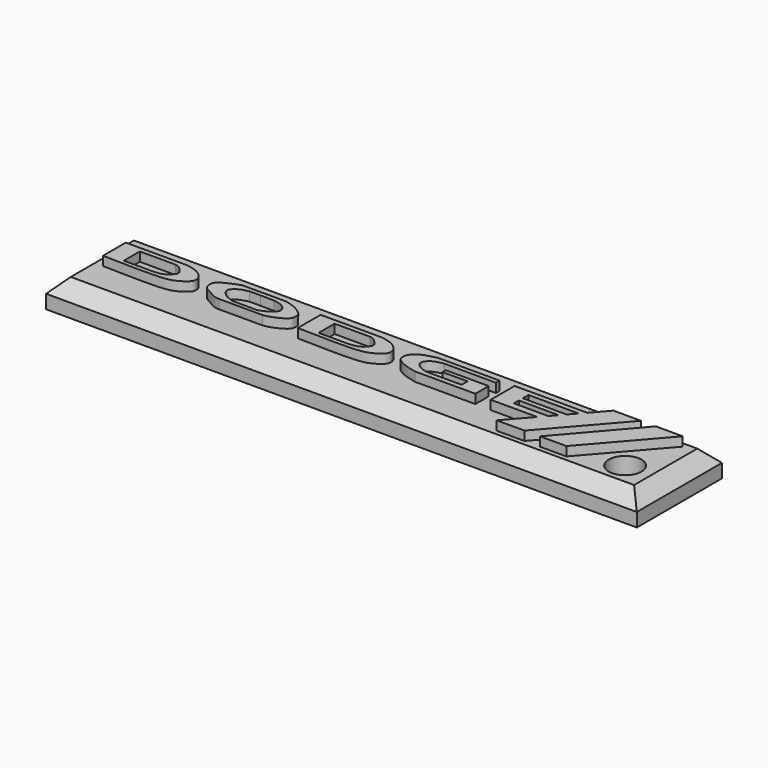
from build123d import *

# Parameters (mm, degrees)
F0_W     = 64.6943780594
F0_H     = 11.6488384083
F1_DEPTH = 3
F2_DEPTH = 4
F3_SIZE  = 1.5
F4_R     = 1.7915457034
F5_DEPTH = 3


with BuildPart() as f1:
    # F0 (on Top) → F1 (new body)
    with BuildSketch(Plane.XY):
        with Locations((29.9404060934, 14.5851164125)):
            Rectangle(F0_W, F0_H)
        with BuildLine():
            add(Edge.make_bspline(
                [(0, 16.6619066149), (0, 15.6249670933), (0, 14.5880275716), (0, 13.55108805)],
                knots=[0, 0, 0, 0, 3.1108185649, 3.1108185649, 3.1108185649, 3.1108185649], degree=3))
            add(Edge.make_bspline(
                [(0, 16.6619066149), (2.2395310613, 16.6654940695), (4.4790621226, 16.669081524), (6.7185931839, 16.6726689786)],
                knots=[0, 0, 0, 0, 6.7186018039, 6.7186018039, 6.7186018039, 6.7186018039], degree=3))
            add(Edge.make_bspline(
                [(0, 13.55108805), (2.6356313992, 13.4776332503), (6.4774683083, 13.3705616162), (7.8916299906, 13.8301948371), (8.8432178583, 14.4937070572), (9.049663195, 15.0230671011), (8.8566248976, 15.7152819785), (7.957345497, 16.4329710188), (7.1418606883, 16.5907669259), (6.7185931839, 16.6726689786)],
                knots=[0, 0, 0, 0, 0.3039399396, 0.4430390678, 0.5638554875, 0.6483479545, 0.743091332, 0.8666546702, 1, 1, 1, 1], degree=3))
        make_face(mode=Mode.SUBTRACT)
        with BuildLine():
            add(Edge.make_bspline(
                [(15.0937847793, 16.7209766805), (14.3032893538, 16.7209766805), (13.5127939284, 16.7209766805), (12.7222985029, 16.7209766805)],
                knots=[0, 0, 0, 0, 2.3714862764, 2.3714862764, 2.3714862764, 2.3714862764], degree=3))
            add(Edge.make_bspline(
                [(15.0937847793, 16.7209766805), (15.8963482827, 16.7209766805), (16.6989117861, 16.7209766805), (17.5014752895, 16.7209766805)],
                knots=[0, 0, 0, 0, 2.4076905102, 2.4076905102, 2.4076905102, 2.4076905102], degree=3))
            add(Edge.make_bspline(
                [(17.5014752895, 13.4986527264), (17.6619988472, 13.5205303148), (18.0499266378, 13.5734005892), (19.0274768919, 13.9559651698), (19.7452737837, 14.4364713857), (19.8917832927, 14.8106124787), (19.8859095439, 15.1034978772), (19.917181117, 15.4698988627), (19.3674249396, 15.9708993273), (18.5895040603, 16.4468247786), (17.875298566, 16.6267839854), (17.5014752895, 16.7209766805)],
                knots=[0, 0, 0, 0, 0.1008314316, 0.2436733589, 0.3713316281, 0.4541357802, 0.5272793992, 0.6062614279, 0.7204347183, 0.8536723528, 1, 1, 1, 1], degree=3))
            add(Edge.make_bspline(
                [(12.7222985029, 13.4986527264), (14.3153574318, 13.4986527264), (15.9084163606, 13.4986527264), (17.5014752895, 13.4986527264)],
                knots=[0, 0, 0, 0, 4.7791767865, 4.7791767865, 4.7791767865, 4.7791767865], degree=3))
            add(Edge.make_bspline(
                [(12.7222985029, 16.7209766805), (12.5992056397, 16.6858814159), (12.3038106527, 16.6016607312), (11.5652978035, 16.269955273), (10.8139625819, 15.9046393622), (10.4607580227, 15.49381424), (10.4168678578, 15.1214249899), (10.4690867127, 14.6529926477), (10.7862065756, 14.2882706084), (11.6351403189, 13.8699157544), (12.2129562328, 13.5226877609), (12.562582557, 13.5061894625), (12.7222985029, 13.4986527264)],
                knots=[0, 0, 0, 0, 0.0847831174, 0.2034602755, 0.3250042595, 0.4178031992, 0.4963426029, 0.5833803792, 0.6725615097, 0.8002972911, 0.9087720093, 1, 1, 1, 1], degree=3))
        make_face(mode=Mode.SUBTRACT)
        with BuildLine():
            add(Edge.make_bspline(
                [(21.3623642921, 16.6247766465), (21.3623642921, 15.5878371249), (21.3623642921, 14.5508976032), (21.3623642921, 13.5139580816)],
                knots=[0, 0, 0, 0, 3.1108185649, 3.1108185649, 3.1108185649, 3.1108185649], degree=3))
            add(Edge.make_bspline(
                [(21.3623642921, 16.6247766465), (23.6018953534, 16.6283641011), (25.8414264147, 16.6319515556), (28.080957476, 16.6355390102)],
                knots=[0, 0, 0, 0, 6.7186018039, 6.7186018039, 6.7186018039, 6.7186018039], degree=3))
            add(Edge.make_bspline(
                [(21.3623642921, 13.5139580816), (23.9979956914, 13.4405032819), (27.8398326005, 13.3334316478), (29.2539942827, 13.7930648687), (30.2055821504, 14.4565770888), (30.4120274871, 14.9859371327), (30.2189891897, 15.6781520101), (29.3197097891, 16.3958410504), (28.5042249804, 16.5536369575), (28.080957476, 16.6355390102)],
                knots=[0, 0, 0, 0, 0.3039399396, 0.4430390678, 0.5638554875, 0.6483479545, 0.743091332, 0.8666546702, 1, 1, 1, 1], degree=3))
        make_face(mode=Mode.SUBTRACT)
        with BuildLine():
            Line((34.1965407133, 16.6758578271), (40.9325882792, 16.6758578271))
            Line((40.9325882792, 16.6758578271), (40.9325882792, 16.1811187863))
            Line((40.9325882792, 16.1811187863), (35.2392978966, 16.1811187863))
            add(Edge.make_bspline(
                [(35.2392978966, 16.1811187863), (35.065849306, 16.1507938909), (34.7034011246, 16.0874252399), (34.0643330703, 15.8536187829), (33.7795420623, 15.5571591868), (33.4432012222, 15.0651121747), (33.8140324231, 14.6158252142), (34.0991364457, 14.3475990951), (34.708079032, 14.0945674904), (35.0670920181, 14.0592638748), (35.2392978966, 14.0423299745)],
                knots=[0, 0, 0, 0, 0.1282020316, 0.2678983611, 0.3804203176, 0.5037163208, 0.6253932633, 0.7358900795, 0.8733157779, 1, 1, 1, 1], degree=3))
            Line((35.2392978966, 14.0423299745), (38.8699136674, 14.0423299745))
            Line((38.8699136674, 14.0423299745), (38.8699136674, 14.8643553257))
            Line((38.8699136674, 14.8643553257), (36.1298248172, 14.8643553257))
            Line((36.1298248172, 14.8643553257), (36.1298248172, 15.3058134019))
            Line((36.1298248172, 15.3058134019), (40.8260300756, 15.3058134019))
            Line((40.8260300756, 15.3058134019), (40.8260300756, 13.4867010638))
            Line((40.8260300756, 13.4867010638), (34.1965407133, 13.4867010638))
            add(Edge.make_bspline(
                [(34.1965407133, 16.6758578271), (33.9997251342, 16.6299726166), (33.5597654512, 16.5274012513), (32.6065235979, 16.2687178985), (32.0547692348, 15.7579720962), (31.7805348243, 15.4758573464), (31.6747249547, 14.9423420515), (31.7976510571, 14.4837935593), (32.0656129323, 14.2737353583), (32.6056744758, 13.9104299558), (33.5032409642, 13.6569636208), (33.9764927592, 13.5407410767), (34.1965407133, 13.4867010638)],
                knots=[0, 0, 0, 0, 0.1027638183, 0.229717267, 0.3388087796, 0.4173092512, 0.5091897415, 0.5945745443, 0.6664153967, 0.7682649406, 0.8922501166, 1, 1, 1, 1], degree=3))
        make_face(mode=Mode.SUBTRACT)
        Polygon((42.5465665758, 13.4334731847), (42.5465665758, 16.7057532817), (50.2967014909, 16.7057532817), (50.5021695869, 16.7057532817), (52.0012713969, 18.4211824089), (55.0158396363, 18.4211824089), (48.366740346, 10.7768261805), (45.3209206462, 10.7768261805), (47.6425463369, 13.4334731847), (47.4872775376, 13.4334731847), align=None, mode=Mode.SUBTRACT)
        Polygon((50.0769019127, 10.7803940773), (56.6501393914, 18.4105243534), (59.5919303596, 18.4105243534), (52.9602617025, 10.7803940773), align=None, mode=Mode.SUBTRACT)
    extrude(amount=F1_DEPTH)

    # F3
    f3_edges = [f1.edges().sort_by_distance(p)[0] for p in [
        (29.940406, 20.409536, 3),
        (62.287595, 14.585116, 3),
        (29.940406, 8.760697, 3),
        (-2.406783, 14.585116, 3),
    ]]
    chamfer(f3_edges, length=F3_SIZE)

    # F4 (on face) → F5 (cut)
    with BuildSketch(Plane.XY.offset(3)):
        with Locations((57.9391159117, 12.594957836)):
            Circle(F4_R)
    extrude(amount=-F5_DEPTH, mode=Mode.SUBTRACT)


with BuildPart() as f1b:
    # F0 (on Top) → F1, piece 2 (new body)
    with BuildSketch(Plane.XY):
        with BuildLine():
            add(Edge.make_bspline(
                [(7.0256316103, 15.1055129245), (7.0366968789, 15.0345991088), (7.0605681613, 14.8816155906), (6.848996733, 14.6681794644), (6.631529301, 14.368447894), (6.2580237894, 14.1292552016), (5.7171660723, 13.9767163298), (5.2918281778, 13.9571205727), (5.0705131143, 13.9469243586)],
                knots=[0, 0, 0, 0, 0.1198938259, 0.2586488843, 0.4189381251, 0.5916116282, 0.7875042417, 1, 1, 1, 1], degree=3))
            add(Edge.make_bspline(
                [(7.0256316103, 15.1055129245), (7.0318702929, 15.1424477781), (7.0481741457, 15.2389714282), (6.8504621463, 15.4932236561), (6.5211986829, 15.824656326), (6.2797102181, 16.0350691635), (6.0053538202, 16.1016293485), (5.8579915203, 16.1373801529)],
                knots=[0, 0, 0, 0, 0.1222791511, 0.3195580553, 0.5665438528, 0.7671820477, 1, 1, 1, 1], degree=3))
            add(Edge.make_bspline(
                [(1.9568065181, 16.1373801529), (3.1938411606, 16.1373801529), (4.6209568779, 16.1373801529), (5.8579915203, 16.1373801529)],
                knots=[0, 0, 0, 0, 3.9011850022, 3.9011850022, 3.9011850022, 3.9011850022], degree=3))
            add(Edge.make_bspline(
                [(1.9568065181, 13.9469243586), (1.9568065181, 14.6770762901), (1.9568065181, 15.4072282215), (1.9568065181, 16.1373801529)],
                knots=[0, 0, 0, 0, 2.1904557943, 2.1904557943, 2.1904557943, 2.1904557943], degree=3))
            add(Edge.make_bspline(
                [(5.0705131143, 13.9469243586), (4.0326109156, 13.9469243586), (2.9947087169, 13.9469243586), (1.9568065181, 13.9469243586)],
                knots=[0, 0, 0, 0, 3.1137065962, 3.1137065962, 3.1137065962, 3.1137065962], degree=3))
        make_face()
    extrude(amount=F1_DEPTH)


with BuildPart() as f1c:
    # F0 (on Top) → F1, piece 3 (new body)
    with BuildSketch(Plane.XY):
        with BuildLine():
            add(Edge.make_bspline(
                [(15.0937847793, 16.2321981043), (15.5885983258, 16.2291806191), (16.0834118724, 16.226163134), (16.5782254189, 16.2231456488)],
                knots=[0, 0, 0, 0, 1.4844682413, 1.4844682413, 1.4844682413, 1.4844682413], degree=3))
            add(Edge.make_bspline(
                [(15.0937847793, 16.2321981043), (14.6925027172, 16.2321981043), (14.291220655, 16.2321981043), (13.8899385929, 16.2321981043)],
                knots=[0, 0, 0, 0, 1.2038461864, 1.2038461864, 1.2038461864, 1.2038461864], degree=3))
            add(Edge.make_bspline(
                [(13.8899385929, 16.2321981043), (13.7706492673, 16.2056827526), (13.4978346206, 16.1450421525), (12.8856721863, 15.9595273799), (12.3630917754, 15.5278754768), (12.2245915543, 15.1700229291), (12.3920564338, 14.8003528846), (12.8476938156, 14.3009392155), (13.4651329737, 14.0690087146), (13.7581584857, 13.9690329128), (13.8899385929, 13.9240715653)],
                knots=[0, 0, 0, 0, 0.1090405819, 0.2493757734, 0.3920136273, 0.4934145843, 0.5994840928, 0.7424799357, 0.8841874844, 1, 1, 1, 1], degree=3))
            add(Edge.make_bspline(
                [(13.8899385929, 13.9240715653), (14.7860342016, 13.9240715653), (15.6821298103, 13.9240715653), (16.5782254189, 13.9240715653)],
                knots=[0, 0, 0, 0, 2.688286826, 2.688286826, 2.688286826, 2.688286826], degree=3))
            add(Edge.make_bspline(
                [(16.5782254189, 16.2231456488), (16.6853115261, 16.2014770044), (16.9432995514, 16.1492736801), (17.6444866898, 15.9983565995), (18.1518256649, 15.4554905564), (18.2107350727, 15.1091341262), (18.1228687756, 14.8392438705), (17.7029833051, 14.3518257418), (16.941130816, 14.064464776), (16.6826848129, 13.9644826196), (16.5782254189, 13.9240715653)],
                knots=[0, 0, 0, 0, 0.1057543587, 0.2547796243, 0.4039361379, 0.5029919421, 0.5924070749, 0.7319447064, 0.8916566974, 1, 1, 1, 1], degree=3))
        make_face()
    extrude(amount=F1_DEPTH)


with BuildPart() as f1d:
    # F0 (on Top) → F1, piece 4 (new body)
    with BuildSketch(Plane.XY):
        with BuildLine():
            add(Edge.make_bspline(
                [(28.3879959024, 15.0683829561), (28.399061171, 14.9974691404), (28.4229324534, 14.8444856222), (28.2113610252, 14.631049496), (27.9938935932, 14.3313179256), (27.6203880816, 14.0921252332), (27.0795303644, 13.9395863613), (26.65419247, 13.9199906043), (26.4328774065, 13.9097943902)],
                knots=[0, 0, 0, 0, 0.1198938259, 0.2586488843, 0.4189381251, 0.5916116282, 0.7875042417, 1, 1, 1, 1], degree=3))
            add(Edge.make_bspline(
                [(28.3879959024, 15.0683829561), (28.394234585, 15.1053178097), (28.4105384378, 15.2018414598), (28.2128264385, 15.4560936877), (27.883562975, 15.7875263576), (27.6420745102, 15.997939195), (27.3677181123, 16.06449938), (27.2203558125, 16.1002501845)],
                knots=[0, 0, 0, 0, 0.1222791511, 0.3195580553, 0.5665438528, 0.7671820477, 1, 1, 1, 1], degree=3))
            add(Edge.make_bspline(
                [(23.3191708103, 16.1002501845), (24.5562054527, 16.1002501845), (25.98332117, 16.1002501845), (27.2203558125, 16.1002501845)],
                knots=[0, 0, 0, 0, 3.9011850022, 3.9011850022, 3.9011850022, 3.9011850022], degree=3))
            add(Edge.make_bspline(
                [(23.3191708103, 13.9097943902), (23.3191708103, 14.6399463216), (23.3191708103, 15.3700982531), (23.3191708103, 16.1002501845)],
                knots=[0, 0, 0, 0, 2.1904557943, 2.1904557943, 2.1904557943, 2.1904557943], degree=3))
            add(Edge.make_bspline(
                [(26.4328774065, 13.9097943902), (25.3949752077, 13.9097943902), (24.357073009, 13.9097943902), (23.3191708103, 13.9097943902)],
                knots=[0, 0, 0, 0, 3.1137065962, 3.1137065962, 3.1137065962, 3.1137065962], degree=3))
        make_face()
    extrude(amount=F1_DEPTH)


with BuildPart() as f1e:
    # F0 (on Top) → F1, piece 5 (new body)
    with BuildSketch(Plane.XY):
        Polygon((47.9286052287, 14.1546670347), (48.2727927217, 14.1546670347), (48.865411157, 14.8328030482), (48.5098659992, 14.8328030482), (44.5163920522, 14.8328030482), (44.5163920522, 14.1546670347), align=None)
    extrude(amount=F1_DEPTH)


with BuildPart() as f1f:
    # F0 (on Top) → F1, piece 6 (new body)
    with BuildSketch(Plane.XY):
        Polygon((49.3263370588, 15.3602426872), (50.0130233334, 16.1460209638), (49.8338453472, 16.1460209638), (44.5163920522, 16.1460209638), (44.5163920522, 15.995323658), (44.5163920522, 15.3602426872), (49.0373037755, 15.3602426872), align=None)
    extrude(amount=F1_DEPTH)


with BuildPart() as f2:
    # F0 (on Top) → F2 (new body)
    with BuildSketch(Plane.XY):
        with BuildLine():
            add(Edge.make_bspline(
                [(0, 16.6619066149), (2.2395310613, 16.6654940695), (4.4790621226, 16.669081524), (6.7185931839, 16.6726689786)],
                knots=[0, 0, 0, 0, 6.7186018039, 6.7186018039, 6.7186018039, 6.7186018039], degree=3))
            add(Edge.make_bspline(
                [(0, 16.6619066149), (0, 15.6249670933), (0, 14.5880275716), (0, 13.55108805)],
                knots=[0, 0, 0, 0, 3.1108185649, 3.1108185649, 3.1108185649, 3.1108185649], degree=3))
            add(Edge.make_bspline(
                [(0, 13.55108805), (2.6356313992, 13.4776332503), (6.4774683083, 13.3705616162), (7.8916299906, 13.8301948371), (8.8432178583, 14.4937070572), (9.049663195, 15.0230671011), (8.8566248976, 15.7152819785), (7.957345497, 16.4329710188), (7.1418606883, 16.5907669259), (6.7185931839, 16.6726689786)],
                knots=[0, 0, 0, 0, 0.3039399396, 0.4430390678, 0.5638554875, 0.6483479545, 0.743091332, 0.8666546702, 1, 1, 1, 1], degree=3))
        make_face()
        with BuildLine():
            add(Edge.make_bspline(
                [(7.0256316103, 15.1055129245), (7.0318702929, 15.1424477781), (7.0481741457, 15.2389714282), (6.8504621463, 15.4932236561), (6.5211986829, 15.824656326), (6.2797102181, 16.0350691635), (6.0053538202, 16.1016293485), (5.8579915203, 16.1373801529)],
                knots=[0, 0, 0, 0, 0.1222791511, 0.3195580553, 0.5665438528, 0.7671820477, 1, 1, 1, 1], degree=3))
            add(Edge.make_bspline(
                [(7.0256316103, 15.1055129245), (7.0366968789, 15.0345991088), (7.0605681613, 14.8816155906), (6.848996733, 14.6681794644), (6.631529301, 14.368447894), (6.2580237894, 14.1292552016), (5.7171660723, 13.9767163298), (5.2918281778, 13.9571205727), (5.0705131143, 13.9469243586)],
                knots=[0, 0, 0, 0, 0.1198938259, 0.2586488843, 0.4189381251, 0.5916116282, 0.7875042417, 1, 1, 1, 1], degree=3))
            add(Edge.make_bspline(
                [(5.0705131143, 13.9469243586), (4.0326109156, 13.9469243586), (2.9947087169, 13.9469243586), (1.9568065181, 13.9469243586)],
                knots=[0, 0, 0, 0, 3.1137065962, 3.1137065962, 3.1137065962, 3.1137065962], degree=3))
            add(Edge.make_bspline(
                [(1.9568065181, 13.9469243586), (1.9568065181, 14.6770762901), (1.9568065181, 15.4072282215), (1.9568065181, 16.1373801529)],
                knots=[0, 0, 0, 0, 2.1904557943, 2.1904557943, 2.1904557943, 2.1904557943], degree=3))
            add(Edge.make_bspline(
                [(1.9568065181, 16.1373801529), (3.1938411606, 16.1373801529), (4.6209568779, 16.1373801529), (5.8579915203, 16.1373801529)],
                knots=[0, 0, 0, 0, 3.9011850022, 3.9011850022, 3.9011850022, 3.9011850022], degree=3))
        make_face(mode=Mode.SUBTRACT)
    extrude(amount=F2_DEPTH)


with BuildPart() as f2b:
    # F0 (on Top) → F2, piece 2 (new body)
    with BuildSketch(Plane.XY):
        with BuildLine():
            add(Edge.make_bspline(
                [(15.0937847793, 16.7209766805), (15.8963482827, 16.7209766805), (16.6989117861, 16.7209766805), (17.5014752895, 16.7209766805)],
                knots=[0, 0, 0, 0, 2.4076905102, 2.4076905102, 2.4076905102, 2.4076905102], degree=3))
            add(Edge.make_bspline(
                [(15.0937847793, 16.7209766805), (14.3032893538, 16.7209766805), (13.5127939284, 16.7209766805), (12.7222985029, 16.7209766805)],
                knots=[0, 0, 0, 0, 2.3714862764, 2.3714862764, 2.3714862764, 2.3714862764], degree=3))
            add(Edge.make_bspline(
                [(12.7222985029, 16.7209766805), (12.5992056397, 16.6858814159), (12.3038106527, 16.6016607312), (11.5652978035, 16.269955273), (10.8139625819, 15.9046393622), (10.4607580227, 15.49381424), (10.4168678578, 15.1214249899), (10.4690867127, 14.6529926477), (10.7862065756, 14.2882706084), (11.6351403189, 13.8699157544), (12.2129562328, 13.5226877609), (12.562582557, 13.5061894625), (12.7222985029, 13.4986527264)],
                knots=[0, 0, 0, 0, 0.0847831174, 0.2034602755, 0.3250042595, 0.4178031992, 0.4963426029, 0.5833803792, 0.6725615097, 0.8002972911, 0.9087720093, 1, 1, 1, 1], degree=3))
            add(Edge.make_bspline(
                [(12.7222985029, 13.4986527264), (14.3153574318, 13.4986527264), (15.9084163606, 13.4986527264), (17.5014752895, 13.4986527264)],
                knots=[0, 0, 0, 0, 4.7791767865, 4.7791767865, 4.7791767865, 4.7791767865], degree=3))
            add(Edge.make_bspline(
                [(17.5014752895, 13.4986527264), (17.6619988472, 13.5205303148), (18.0499266378, 13.5734005892), (19.0274768919, 13.9559651698), (19.7452737837, 14.4364713857), (19.8917832927, 14.8106124787), (19.8859095439, 15.1034978772), (19.917181117, 15.4698988627), (19.3674249396, 15.9708993273), (18.5895040603, 16.4468247786), (17.875298566, 16.6267839854), (17.5014752895, 16.7209766805)],
                knots=[0, 0, 0, 0, 0.1008314316, 0.2436733589, 0.3713316281, 0.4541357802, 0.5272793992, 0.6062614279, 0.7204347183, 0.8536723528, 1, 1, 1, 1], degree=3))
        make_face()
        with BuildLine():
            add(Edge.make_bspline(
                [(15.0937847793, 16.2321981043), (14.6925027172, 16.2321981043), (14.291220655, 16.2321981043), (13.8899385929, 16.2321981043)],
                knots=[0, 0, 0, 0, 1.2038461864, 1.2038461864, 1.2038461864, 1.2038461864], degree=3))
            add(Edge.make_bspline(
                [(15.0937847793, 16.2321981043), (15.5885983258, 16.2291806191), (16.0834118724, 16.226163134), (16.5782254189, 16.2231456488)],
                knots=[0, 0, 0, 0, 1.4844682413, 1.4844682413, 1.4844682413, 1.4844682413], degree=3))
            add(Edge.make_bspline(
                [(16.5782254189, 16.2231456488), (16.6853115261, 16.2014770044), (16.9432995514, 16.1492736801), (17.6444866898, 15.9983565995), (18.1518256649, 15.4554905564), (18.2107350727, 15.1091341262), (18.1228687756, 14.8392438705), (17.7029833051, 14.3518257418), (16.941130816, 14.064464776), (16.6826848129, 13.9644826196), (16.5782254189, 13.9240715653)],
                knots=[0, 0, 0, 0, 0.1057543587, 0.2547796243, 0.4039361379, 0.5029919421, 0.5924070749, 0.7319447064, 0.8916566974, 1, 1, 1, 1], degree=3))
            add(Edge.make_bspline(
                [(13.8899385929, 13.9240715653), (14.7860342016, 13.9240715653), (15.6821298103, 13.9240715653), (16.5782254189, 13.9240715653)],
                knots=[0, 0, 0, 0, 2.688286826, 2.688286826, 2.688286826, 2.688286826], degree=3))
            add(Edge.make_bspline(
                [(13.8899385929, 16.2321981043), (13.7706492673, 16.2056827526), (13.4978346206, 16.1450421525), (12.8856721863, 15.9595273799), (12.3630917754, 15.5278754768), (12.2245915543, 15.1700229291), (12.3920564338, 14.8003528846), (12.8476938156, 14.3009392155), (13.4651329737, 14.0690087146), (13.7581584857, 13.9690329128), (13.8899385929, 13.9240715653)],
                knots=[0, 0, 0, 0, 0.1090405819, 0.2493757734, 0.3920136273, 0.4934145843, 0.5994840928, 0.7424799357, 0.8841874844, 1, 1, 1, 1], degree=3))
        make_face(mode=Mode.SUBTRACT)
    extrude(amount=F2_DEPTH)


with BuildPart() as f2c:
    # F0 (on Top) → F2, piece 3 (new body)
    with BuildSketch(Plane.XY):
        with BuildLine():
            add(Edge.make_bspline(
                [(21.3623642921, 16.6247766465), (23.6018953534, 16.6283641011), (25.8414264147, 16.6319515556), (28.080957476, 16.6355390102)],
                knots=[0, 0, 0, 0, 6.7186018039, 6.7186018039, 6.7186018039, 6.7186018039], degree=3))
            add(Edge.make_bspline(
                [(21.3623642921, 16.6247766465), (21.3623642921, 15.5878371249), (21.3623642921, 14.5508976032), (21.3623642921, 13.5139580816)],
                knots=[0, 0, 0, 0, 3.1108185649, 3.1108185649, 3.1108185649, 3.1108185649], degree=3))
            add(Edge.make_bspline(
                [(21.3623642921, 13.5139580816), (23.9979956914, 13.4405032819), (27.8398326005, 13.3334316478), (29.2539942827, 13.7930648687), (30.2055821504, 14.4565770888), (30.4120274871, 14.9859371327), (30.2189891897, 15.6781520101), (29.3197097891, 16.3958410504), (28.5042249804, 16.5536369575), (28.080957476, 16.6355390102)],
                knots=[0, 0, 0, 0, 0.3039399396, 0.4430390678, 0.5638554875, 0.6483479545, 0.743091332, 0.8666546702, 1, 1, 1, 1], degree=3))
        make_face()
        with BuildLine():
            add(Edge.make_bspline(
                [(28.3879959024, 15.0683829561), (28.394234585, 15.1053178097), (28.4105384378, 15.2018414598), (28.2128264385, 15.4560936877), (27.883562975, 15.7875263576), (27.6420745102, 15.997939195), (27.3677181123, 16.06449938), (27.2203558125, 16.1002501845)],
                knots=[0, 0, 0, 0, 0.1222791511, 0.3195580553, 0.5665438528, 0.7671820477, 1, 1, 1, 1], degree=3))
            add(Edge.make_bspline(
                [(28.3879959024, 15.0683829561), (28.399061171, 14.9974691404), (28.4229324534, 14.8444856222), (28.2113610252, 14.631049496), (27.9938935932, 14.3313179256), (27.6203880816, 14.0921252332), (27.0795303644, 13.9395863613), (26.65419247, 13.9199906043), (26.4328774065, 13.9097943902)],
                knots=[0, 0, 0, 0, 0.1198938259, 0.2586488843, 0.4189381251, 0.5916116282, 0.7875042417, 1, 1, 1, 1], degree=3))
            add(Edge.make_bspline(
                [(26.4328774065, 13.9097943902), (25.3949752077, 13.9097943902), (24.357073009, 13.9097943902), (23.3191708103, 13.9097943902)],
                knots=[0, 0, 0, 0, 3.1137065962, 3.1137065962, 3.1137065962, 3.1137065962], degree=3))
            add(Edge.make_bspline(
                [(23.3191708103, 13.9097943902), (23.3191708103, 14.6399463216), (23.3191708103, 15.3700982531), (23.3191708103, 16.1002501845)],
                knots=[0, 0, 0, 0, 2.1904557943, 2.1904557943, 2.1904557943, 2.1904557943], degree=3))
            add(Edge.make_bspline(
                [(23.3191708103, 16.1002501845), (24.5562054527, 16.1002501845), (25.98332117, 16.1002501845), (27.2203558125, 16.1002501845)],
                knots=[0, 0, 0, 0, 3.9011850022, 3.9011850022, 3.9011850022, 3.9011850022], degree=3))
        make_face(mode=Mode.SUBTRACT)
    extrude(amount=F2_DEPTH)


with BuildPart() as f2d:
    # F0 (on Top) → F2, piece 4 (new body)
    with BuildSketch(Plane.XY):
        with BuildLine():
            Line((40.9325882792, 16.1811187863), (40.9325882792, 16.6758578271))
            Line((40.9325882792, 16.6758578271), (34.1965407133, 16.6758578271))
            add(Edge.make_bspline(
                [(34.1965407133, 16.6758578271), (33.9997251342, 16.6299726166), (33.5597654512, 16.5274012513), (32.6065235979, 16.2687178985), (32.0547692348, 15.7579720962), (31.7805348243, 15.4758573464), (31.6747249547, 14.9423420515), (31.7976510571, 14.4837935593), (32.0656129323, 14.2737353583), (32.6056744758, 13.9104299558), (33.5032409642, 13.6569636208), (33.9764927592, 13.5407410767), (34.1965407133, 13.4867010638)],
                knots=[0, 0, 0, 0, 0.1027638183, 0.229717267, 0.3388087796, 0.4173092512, 0.5091897415, 0.5945745443, 0.6664153967, 0.7682649406, 0.8922501166, 1, 1, 1, 1], degree=3))
            Line((34.1965407133, 13.4867010638), (40.8260300756, 13.4867010638))
            Line((40.8260300756, 13.4867010638), (40.8260300756, 15.3058134019))
            Line((40.8260300756, 15.3058134019), (36.1298248172, 15.3058134019))
            Line((36.1298248172, 15.3058134019), (36.1298248172, 14.8643553257))
            Line((36.1298248172, 14.8643553257), (38.8699136674, 14.8643553257))
            Line((38.8699136674, 14.8643553257), (38.8699136674, 14.0423299745))
            Line((38.8699136674, 14.0423299745), (35.2392978966, 14.0423299745))
            add(Edge.make_bspline(
                [(35.2392978966, 16.1811187863), (35.065849306, 16.1507938909), (34.7034011246, 16.0874252399), (34.0643330703, 15.8536187829), (33.7795420623, 15.5571591868), (33.4432012222, 15.0651121747), (33.8140324231, 14.6158252142), (34.0991364457, 14.3475990951), (34.708079032, 14.0945674904), (35.0670920181, 14.0592638748), (35.2392978966, 14.0423299745)],
                knots=[0, 0, 0, 0, 0.1282020316, 0.2678983611, 0.3804203176, 0.5037163208, 0.6253932633, 0.7358900795, 0.8733157779, 1, 1, 1, 1], degree=3))
            Line((35.2392978966, 16.1811187863), (40.9325882792, 16.1811187863))
        make_face()
    extrude(amount=F2_DEPTH)


with BuildPart() as f2e:
    # F0 (on Top) → F2, piece 5 (new body)
    with BuildSketch(Plane.XY):
        Polygon((50.2967014909, 16.7057532817), (42.5465665758, 16.7057532817), (42.5465665758, 13.4334731847), (47.4872775376, 13.4334731847), (47.6425463369, 13.4334731847), (48.2727927217, 14.1546670347), (47.9286052287, 14.1546670347), (44.5163920522, 14.1546670347), (44.5163920522, 14.8328030482), (48.5098659992, 14.8328030482), (48.865411157, 14.8328030482), (49.3263370588, 15.3602426872), (49.0373037755, 15.3602426872), (44.5163920522, 15.3602426872), (44.5163920522, 15.995323658), (44.5163920522, 16.1460209638), (49.8338453472, 16.1460209638), (50.0130233334, 16.1460209638), (50.5021695869, 16.7057532817), align=None)
        Polygon((52.0012713969, 18.4211824089), (50.5021695869, 16.7057532817), (50.0130233334, 16.1460209638), (49.3263370588, 15.3602426872), (48.865411157, 14.8328030482), (48.2727927217, 14.1546670347), (47.6425463369, 13.4334731847), (45.3209206462, 10.7768261805), (48.366740346, 10.7768261805), (55.0158396363, 18.4211824089), align=None)
    extrude(amount=F2_DEPTH)


with BuildPart() as f2f:
    # F0 (on Top) → F2, piece 6 (new body)
    with BuildSketch(Plane.XY):
        Polygon((59.5919303596, 18.4105243534), (56.6501393914, 18.4105243534), (50.0769019127, 10.7803940773), (52.9602617025, 10.7803940773), align=None)
    extrude(amount=F2_DEPTH)


solid = Compound([f1.part, f1b.part, f1c.part, f1d.part, f1e.part, f1f.part, f2.part, f2b.part, f2c.part, f2d.part, f2e.part, f2f.part])
